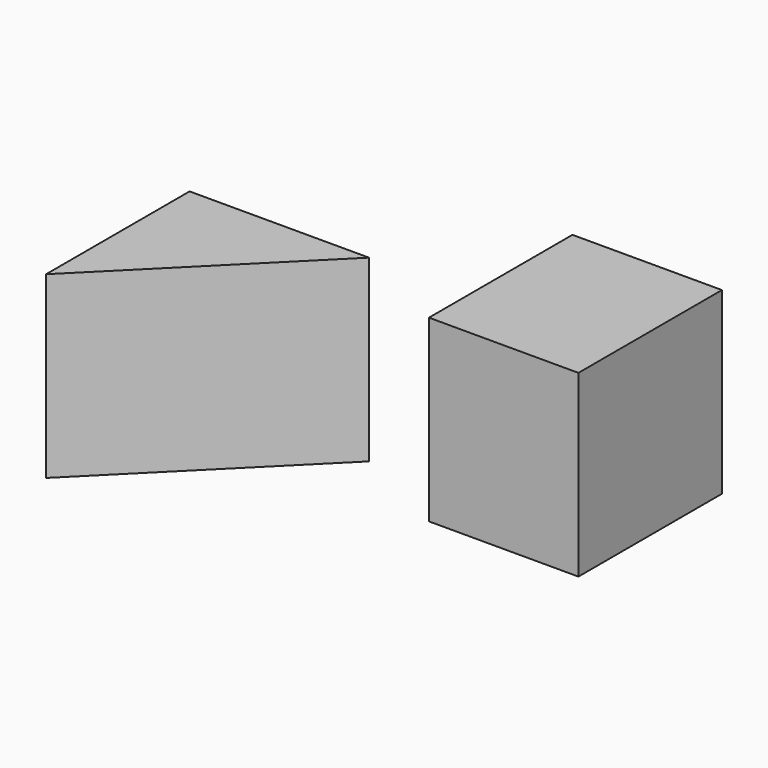
from build123d import *

# Parameters (mm, degrees)
F0_W     = 50
F0_H     = 60
F1_DEPTH = 60
F3_DEPTH = 60


with BuildPart() as f1:
    # F0 (on Top) → F1 (new body)
    with BuildSketch(Plane.XY):
        with Locations((1.273109, 6.367529)):
            Rectangle(F0_W, F0_H)
    extrude(amount=F1_DEPTH)


with BuildPart() as f3:
    # F2 (on Top) → F3 (new body)
    with BuildSketch(Plane.XY):
        Polygon((-57.168607, -6.91614), (-117.168607, -6.91614), (-117.168607, -66.91614), align=None)
    extrude(amount=F3_DEPTH)


solid = Compound([f1.part, f3.part])
